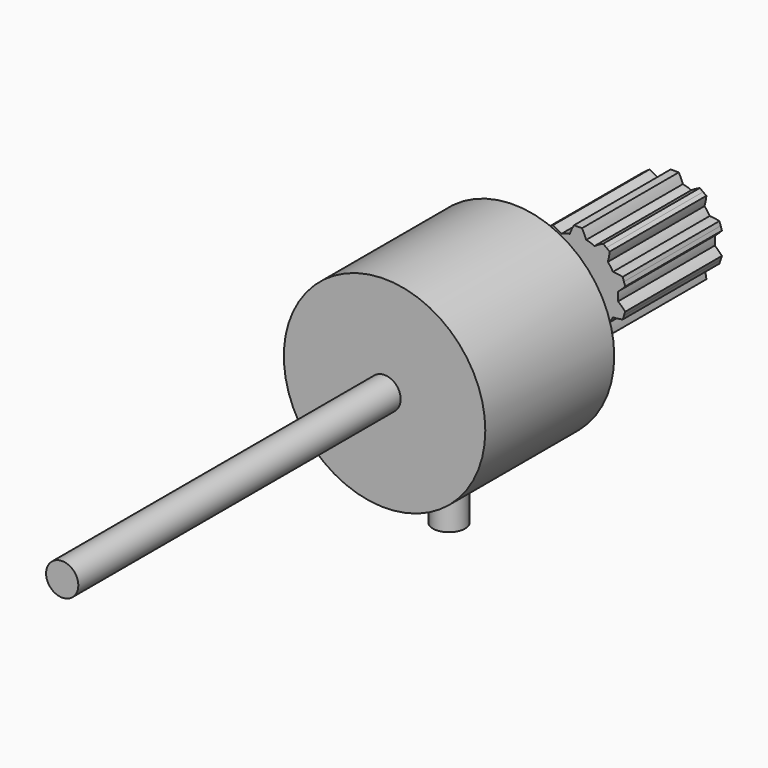
from build123d import *

# Parameters (mm, degrees)
F0_R          = 12.5
F1_DEPTH      = 10
F1_DEPTH_BACK = 10
F2_R          = 2
F3_DEPTH      = 20
F4_R          = 2
F5_DEPTH      = 10
F5_DEPTH_BACK = 70
F7_DEPTH      = 15
F8_R          = 2
F9_DEPTH      = 6


with BuildPart() as f1:
    # F0 (on Front) → F1 (new body, two sides)
    with BuildSketch(Plane.XZ) as f1_sk:
        Circle(F0_R)
    extrude(amount=F1_DEPTH)
    extrude(f1_sk.sketch, amount=-F1_DEPTH_BACK)

    # F2 (on face) → F3 (cut, through all)
    with BuildSketch(Plane.XZ.offset(10)):
        Circle(F2_R)
    extrude(amount=-F3_DEPTH, mode=Mode.SUBTRACT)


with BuildPart() as f5:
    # F4 (on face) → F5 (new body, two sides)
    with BuildSketch(Plane(origin=(0, 10, 0), x_dir=(-1, 0, 0), z_dir=(0, 1, 0))) as f5_sk:
        Circle(F4_R)
    extrude(amount=F5_DEPTH)
    extrude(f5_sk.sketch, amount=-F5_DEPTH_BACK)

    # F6 (on face) → F7 (join)
    with BuildSketch(Plane(origin=(0, 20, 0), x_dir=(-1, 0, 0), z_dir=(0, 1, 0))):
        with BuildLine():
            ThreePointArc((4.9706379649, -0.541071365), (4.992654095, -0.2709337332), (5, 0))
            ThreePointArc((5, 0), (4.992654095, 0.2709337332), (4.9706379649, 0.541071365))
            ThreePointArc((4.9706379649, 0.541071365), (4.7552825815, 1.5450849719), (4.3393643553, 2.4839317608))
            ThreePointArc((4.3393643553, 2.4839317608), (4.0450849719, 2.9389262615), (3.7032968177, 3.3594036197))
            ThreePointArc((3.7032968177, 3.3594036197), (2.9389262615, 4.0450849719), (2.0506010515, 4.5601573797))
            ThreePointArc((2.0506010515, 4.5601573797), (1.5450849719, 4.7552825815), (1.0214221566, 4.8945578736))
            ThreePointArc((1.0214221566, 4.8945578736), (0, 5), (-1.0214221566, 4.8945578736))
            ThreePointArc((-1.0214221566, 4.8945578736), (-1.5450849719, 4.7552825815), (-2.0506010515, 4.5601573797))
            ThreePointArc((-2.0506010515, 4.5601573797), (-2.9389262615, 4.0450849719), (-3.7032968177, 3.3594036197))
            ThreePointArc((-3.7032968177, 3.3594036197), (-4.0450849719, 2.9389262615), (-4.3393643553, 2.4839317608))
            ThreePointArc((-4.3393643553, 2.4839317608), (-4.7552825815, 1.5450849719), (-4.9706379649, 0.541071365))
            ThreePointArc((-4.9706379649, 0.541071365), (-5, 0), (-4.9706379649, -0.541071365))
            ThreePointArc((-4.9706379649, -0.541071365), (-4.7552825815, -1.5450849719), (-4.3393643553, -2.4839317608))
            ThreePointArc((-4.3393643553, -2.4839317608), (-4.0450849719, -2.9389262615), (-3.7032968177, -3.3594036197))
            ThreePointArc((-3.7032968177, -3.3594036197), (-2.9389262615, -4.0450849719), (-2.0506010515, -4.5601573797))
            ThreePointArc((-2.0506010515, -4.5601573797), (-1.5450849719, -4.7552825815), (-1.0214221566, -4.8945578736))
            ThreePointArc((-1.0214221566, -4.8945578736), (0, -5), (1.0214221566, -4.8945578736))
            ThreePointArc((1.0214221566, -4.8945578736), (1.5450849719, -4.7552825815), (2.0506010515, -4.5601573797))
            ThreePointArc((2.0506010515, -4.5601573797), (2.9389262615, -4.0450849719), (3.7032968177, -3.3594036197))
            ThreePointArc((3.7032968177, -3.3594036197), (4.0450849719, -2.9389262615), (4.3393643553, -2.4839317608))
            ThreePointArc((4.3393643553, -2.4839317608), (4.7552825815, -1.5450849719), (4.9706379649, -0.541071365))
        make_face()
        with BuildLine():
            ThreePointArc((4.3393643553, 2.4839317608), (4.7552825815, 1.5450849719), (4.9706379649, 0.541071365))
            ThreePointArc((4.9706379649, 0.541071365), (5.4328317465, 0.9416580947), (5.860847595, 1.3785737081))
            Line((5.860847595, 1.3785737081), (5.7063390978, 1.8541019662))
            Line((5.7063390978, 1.8541019662), (5.5518306006, 2.3296302244))
            ThreePointArc((5.5518306006, 2.3296302244), (4.9487459513, 2.4315209772), (4.3393643553, 2.4839317608))
        make_face()
        with BuildLine():
            ThreePointArc((5.860847595, -1.3785737081), (5.4328317465, -0.9416580947), (4.9706379649, -0.541071365))
            ThreePointArc((4.9706379649, -0.541071365), (4.7552825815, -1.5450849719), (4.3393643553, -2.4839317608))
            ThreePointArc((4.3393643553, -2.4839317608), (4.9487459513, -2.4315209772), (5.5518306006, -2.3296302244))
            Line((5.5518306006, -2.3296302244), (5.7063390978, -1.8541019662))
            Line((5.7063390978, -1.8541019662), (5.860847595, -1.3785737081))
        make_face()
        with BuildLine():
            ThreePointArc((2.0506010515, 4.5601573797), (2.9389262615, 4.0450849719), (3.7032968177, 3.3594036197))
            ThreePointArc((3.7032968177, 3.3594036197), (3.8417604697, 3.9551557803), (3.9312200109, 4.5602093401))
            Line((3.9312200109, 4.5602093401), (3.5267115138, 4.8541019662))
            Line((3.5267115138, 4.8541019662), (3.1222030166, 5.1479945924))
            ThreePointArc((3.1222030166, 5.1479945924), (2.5744074044, 4.8759416802), (2.0506010515, 4.5601573797))
        make_face()
        with BuildLine():
            ThreePointArc((3.9312200109, -4.5602093401), (3.8417604697, -3.9551557803), (3.7032968177, -3.3594036197))
            ThreePointArc((3.7032968177, -3.3594036197), (2.9389262615, -4.0450849719), (2.0506010515, -4.5601573797))
            ThreePointArc((2.0506010515, -4.5601573797), (2.5744074044, -4.8759416802), (3.1222030166, -5.1479945924))
            Line((3.1222030166, -5.1479945924), (3.5267115138, -4.8541019662))
            Line((3.5267115138, -4.8541019662), (3.9312200109, -4.5602093401))
        make_face()
        with BuildLine():
            ThreePointArc((-1.0214221566, 4.8945578736), (0, 5), (1.0214221566, 4.8945578736))
            ThreePointArc((1.0214221566, 4.8945578736), (0.7832672701, 5.4579183886), (0.5, 6))
            Line((0.5, 6), (0, 6))
            Line((0, 6), (-0.5, 6))
            ThreePointArc((-0.5, 6), (-0.7832672701, 5.4579183886), (-1.0214221566, 4.8945578736))
        make_face()
        with BuildLine():
            ThreePointArc((0.5, -6), (0.7832672701, -5.4579183886), (1.0214221566, -4.8945578736))
            ThreePointArc((1.0214221566, -4.8945578736), (0, -5), (-1.0214221566, -4.8945578736))
            ThreePointArc((-1.0214221566, -4.8945578736), (-0.7832672701, -5.4579183886), (-0.5, -6))
            Line((-0.5, -6), (0, -6))
            Line((0, -6), (0.5, -6))
        make_face()
        with BuildLine():
            ThreePointArc((-3.7032968177, 3.3594036197), (-2.9389262615, 4.0450849719), (-2.0506010515, 4.5601573797))
            ThreePointArc((-2.0506010515, 4.5601573797), (-2.5744074044, 4.8759416802), (-3.1222030166, 5.1479945924))
            Line((-3.1222030166, 5.1479945924), (-3.5267115138, 4.8541019662))
            Line((-3.5267115138, 4.8541019662), (-3.9312200109, 4.5602093401))
            ThreePointArc((-3.9312200109, 4.5602093401), (-3.8417604697, 3.9551557803), (-3.7032968177, 3.3594036197))
        make_face()
        with BuildLine():
            ThreePointArc((-3.1222030166, -5.1479945924), (-2.5744074044, -4.8759416802), (-2.0506010515, -4.5601573797))
            ThreePointArc((-2.0506010515, -4.5601573797), (-2.9389262615, -4.0450849719), (-3.7032968177, -3.3594036197))
            ThreePointArc((-3.7032968177, -3.3594036197), (-3.8417604697, -3.9551557803), (-3.9312200109, -4.5602093401))
            Line((-3.9312200109, -4.5602093401), (-3.5267115138, -4.8541019662))
            Line((-3.5267115138, -4.8541019662), (-3.1222030166, -5.1479945924))
        make_face()
        with BuildLine():
            ThreePointArc((-4.9706379649, 0.541071365), (-4.7552825815, 1.5450849719), (-4.3393643553, 2.4839317608))
            ThreePointArc((-4.3393643553, 2.4839317608), (-4.9487459513, 2.4315209772), (-5.5518306006, 2.3296302244))
            Line((-5.5518306006, 2.3296302244), (-5.7063390978, 1.8541019662))
            Line((-5.7063390978, 1.8541019662), (-5.860847595, 1.3785737081))
            ThreePointArc((-5.860847595, 1.3785737081), (-5.4328317465, 0.9416580947), (-4.9706379649, 0.541071365))
        make_face()
        with BuildLine():
            ThreePointArc((-5.5518306006, -2.3296302244), (-4.9487459513, -2.4315209772), (-4.3393643553, -2.4839317608))
            ThreePointArc((-4.3393643553, -2.4839317608), (-4.7552825815, -1.5450849719), (-4.9706379649, -0.541071365))
            ThreePointArc((-4.9706379649, -0.541071365), (-5.4328317465, -0.9416580947), (-5.860847595, -1.3785737081))
            Line((-5.860847595, -1.3785737081), (-5.7063390978, -1.8541019662))
            Line((-5.7063390978, -1.8541019662), (-5.5518306006, -2.3296302244))
        make_face()
    extrude(amount=F7_DEPTH)


with BuildPart() as f9:
    # F8 (on Top) → F9 (new body)
    with BuildSketch(Plane.XY):
        Circle(F8_R)
    extrude(amount=F9_DEPTH)


with BuildPart() as f9_1:
    # F10: moved
    add(f9.part.moved(Location((0, 0, -18.2))))


with BuildPart() as f1_1:
    add(f1.part)

    # F11: cut F9
    add(f9_1.part, mode=Mode.SUBTRACT)


solid = Compound([f5.part, f9_1.part, f1_1.part])
